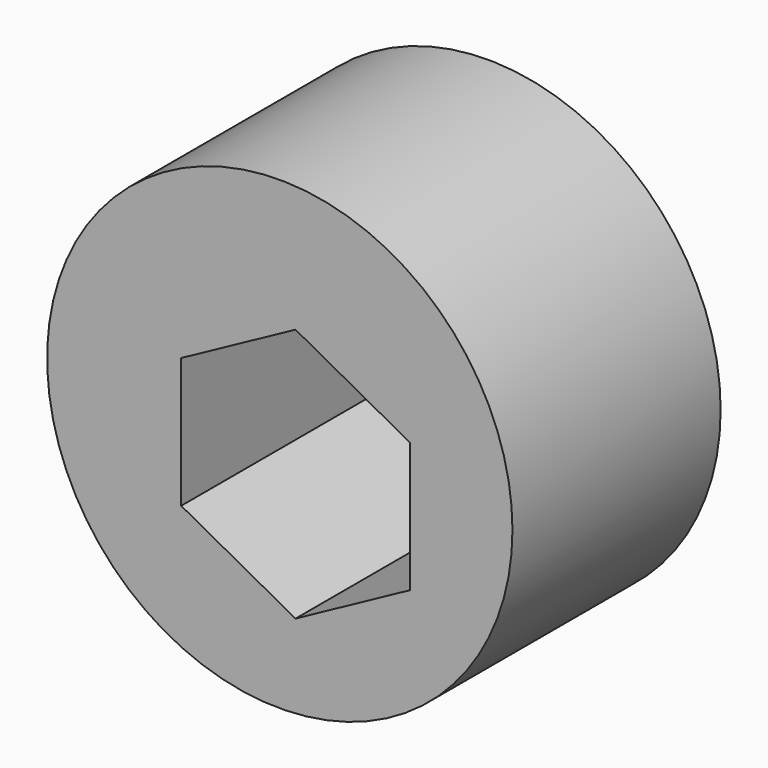
from build123d import *

# Parameters (mm, degrees)
F0_R     = 5.677699
F1_DEPTH = 6.35


with BuildPart() as f1:
    # F0 (on Front) → F1 (new body)
    with BuildSketch(Plane.XZ):
        with Locations((-3.173587, 2.108483)):
            Circle(F0_R)
        Polygon((-5.57913, 0), (-5.57913, 3.175), (-2.789565, 4.691229), (0, 3.175), (0, 0), (-2.789565, -1.516229), align=None, mode=Mode.SUBTRACT)
    extrude(amount=F1_DEPTH)


solid = f1.part
